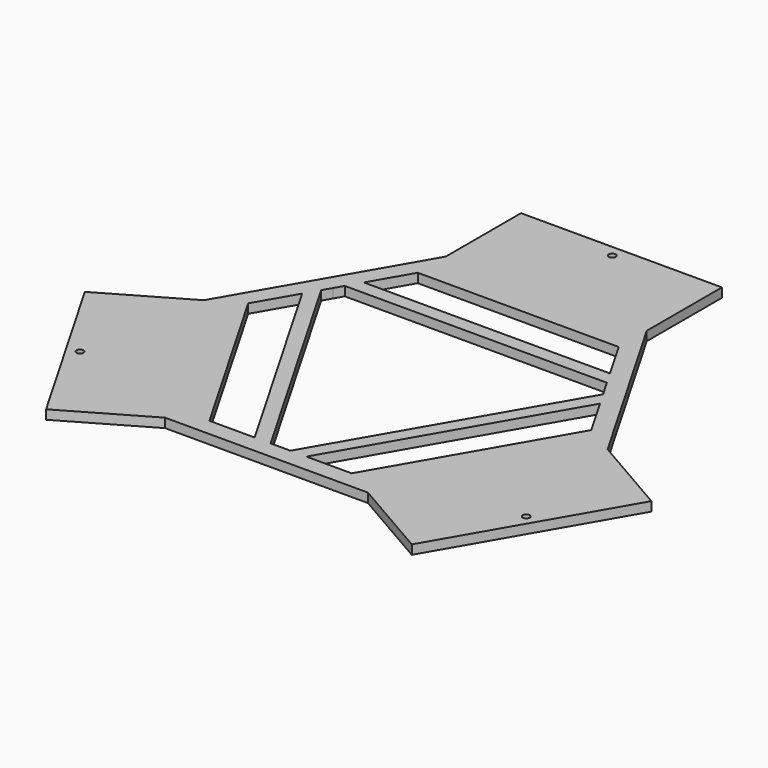
from build123d import *

# Parameters (mm, degrees)
F0_R     = 7.5
F1_DEPTH = 20


with BuildPart() as f1:
    # F0 (on Top) → F1 (new body)
    with BuildSketch(Plane.XY):
        Polygon((218, 380), (218, 584), (-218, 584), (-218, 380), (-328.044827, 189.396769), (-438.089653, -1.206462), (-614.758836, -103.206462), (-396.758836, -480.793538), (-220.089653, -378.793538), (0, -378.793538), (220.089653, -378.793538), (396.758836, -480.793538), (614.758836, -103.206462), (438.089653, -1.206462), (328.044827, 189.396769), align=None)
        with Locations((-484.108201, -279.5)):
            Circle(F0_R, mode=Mode.SUBTRACT)
        Polygon((-372.271723, 36.793538), (-323.19695, 121.793538), (-56.122177, -340.793538), (-154.271723, -340.793538), align=None, mode=Mode.SUBTRACT)
        with Locations((484.108201, -279.5)):
            Circle(F0_R, mode=Mode.SUBTRACT)
        Polygon((154.271723, -340.793538), (56.122177, -340.793538), (323.19695, 121.793538), (372.271723, 36.793538), align=None, mode=Mode.SUBTRACT)
        Polygon((-295.135861, 170.396769), (-284.395281, 189), (0, 189), (284.395281, 189), (295.135861, 170.396769), (305.876442, 151.793538), (163.678801, -94.5), (21.481161, -340.793538), (0, -340.793538), (-21.481161, -340.793538), (-163.678801, -94.5), (-305.876442, 151.793538), align=None, mode=Mode.SUBTRACT)
        Polygon((-218, 304), (218, 304), (267.074773, 219), (-267.074773, 219), align=None, mode=Mode.SUBTRACT)
        with Locations((0, 559)):
            Circle(F0_R, mode=Mode.SUBTRACT)
    extrude(amount=F1_DEPTH)


solid = f1.part
